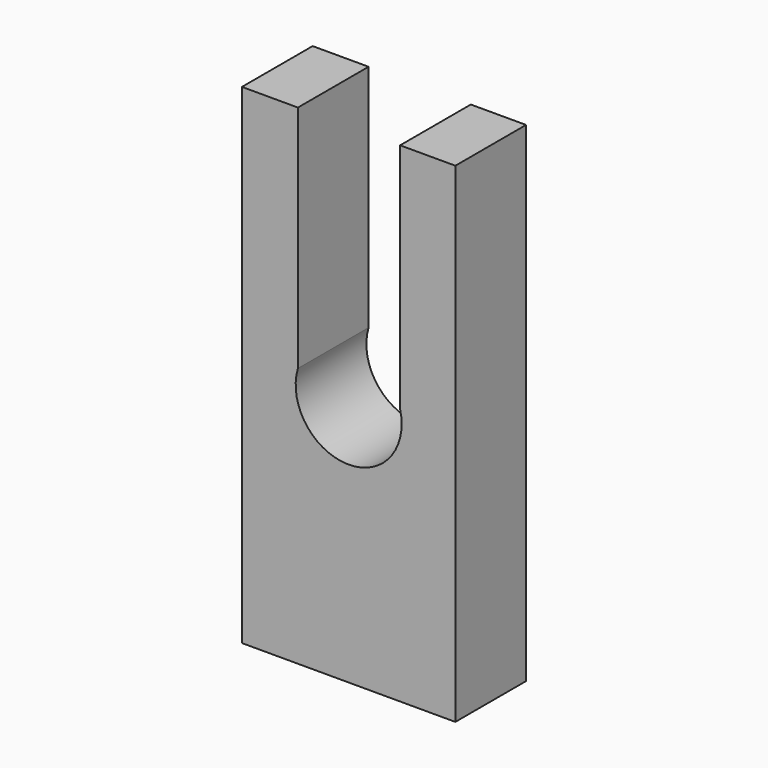
from build123d import *

# Parameters (mm, degrees)
F0_W     = 39.875954
F0_H     = 91.495306
F1_DEPTH = 16.51
F2_R     = 9.901049
F3_DEPTH = 39.878
F4_W     = 19.099163
F4_H     = 47.554333
F5_DEPTH = 25.4


with BuildPart() as f1:
    # F0 (on Front) → F1 (new body)
    with BuildSketch(Plane.XZ):
        Rectangle(F0_W, F0_H)
    extrude(amount=-F1_DEPTH)

    # F2 (on face) → F3 (cut)
    with BuildSketch(Plane.XZ):
        Circle(F2_R)
    extrude(amount=-F3_DEPTH, mode=Mode.SUBTRACT)

    # F4 (on Front) → F5 (cut)
    with BuildSketch(Plane.XZ):
        with Locations((0.064525, 23.777166)):
            Rectangle(F4_W, F4_H)
    extrude(amount=-F5_DEPTH, mode=Mode.SUBTRACT)


solid = f1.part
